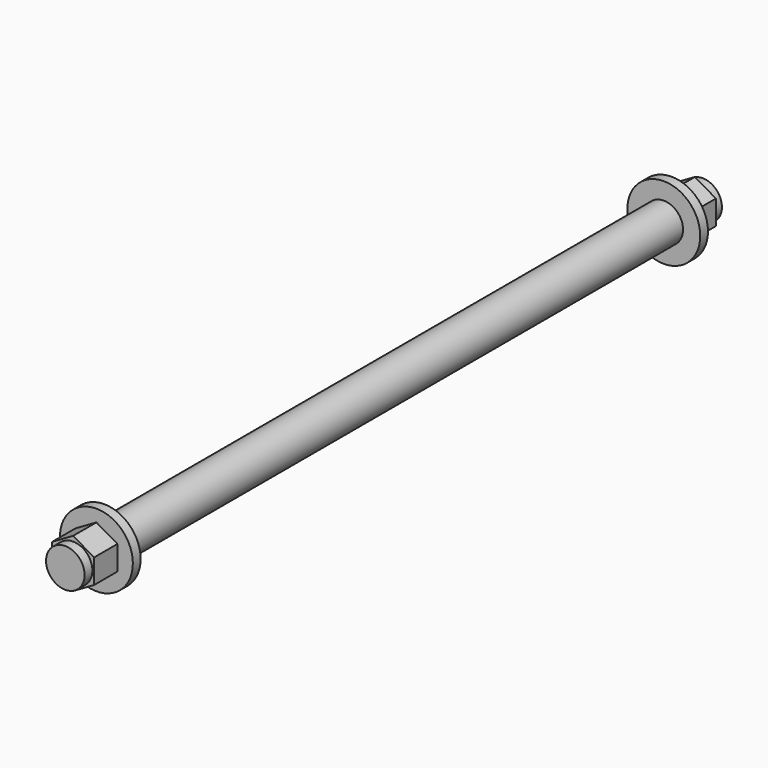
from build123d import *

# Parameters (mm, degrees)
SKETCH013_R     = 3.96875
PAD009_DEPTH    = 164
SKETCH014_R     = 7.5
PAD010_DEPTH    = 10
SKETCH015_R     = 7.5
POCKET003_DEPTH = 8
SKETCH016_R     = 7.5
SKETCH016_R_2   = 3.96875
POCKET004_DEPTH = 2
SKETCH017_R     = 7.5
PAD011_DEPTH    = 10
SKETCH018_R     = 7.5
POCKET005_DEPTH = 8
SKETCH019_R     = 7.5
SKETCH019_R_2   = 3.96875
POCKET006_DEPTH = 2


with BuildPart() as part:
    # Sketch013 → Pad009 (new body)
    with BuildSketch(Plane(origin=(500, 82, 56), x_dir=(1, 0, 0), z_dir=(0, -1, 0))):
        Circle(SKETCH013_R)
    extrude(amount=PAD009_DEPTH)

    # Sketch014 → Pad010 (new body)
    with BuildSketch(Plane(origin=(500, 82, 56), x_dir=(1, 0, 0), z_dir=(0, 1, 0))):
        Circle(SKETCH014_R)
    extrude(amount=-PAD010_DEPTH)

    # Sketch015 → Pocket003 (cut)
    with BuildSketch(Plane(origin=(500, 82, 56), x_dir=(1, 0, 0), z_dir=(0, 1, 0))):
        Circle(SKETCH015_R)
        Polygon((0, 5), (-4.330127, 2.5), (-4.330127, -2.5), (0, -5), (4.330127, -2.5), (4.330127, 2.5), align=None, mode=Mode.SUBTRACT)
    extrude(amount=-POCKET003_DEPTH, mode=Mode.SUBTRACT)

    # Sketch016 → Pocket004 (cut)
    with BuildSketch(Plane(origin=(500, 82, 56), x_dir=(1, 0, 0), z_dir=(0, 1, 0))):
        Circle(SKETCH016_R)
        Circle(SKETCH016_R_2, mode=Mode.SUBTRACT)
    extrude(amount=-POCKET004_DEPTH, mode=Mode.SUBTRACT)

    # Sketch017 → Pad011 (new body)
    with BuildSketch(Plane(origin=(500, -82, 56), x_dir=(1, 0, 0), z_dir=(0, -1, 0))):
        Circle(SKETCH017_R)
    extrude(amount=-PAD011_DEPTH)

    # Sketch018 → Pocket005 (cut)
    with BuildSketch(Plane(origin=(500, -82, 56), x_dir=(1, 0, 0), z_dir=(0, -1, 0))):
        Circle(SKETCH018_R)
        Polygon((0, 5), (-4.330127, 2.5), (-4.330127, -2.5), (0, -5), (4.330127, -2.5), (4.330127, 2.5), align=None, mode=Mode.SUBTRACT)
    extrude(amount=-POCKET005_DEPTH, mode=Mode.SUBTRACT)

    # Sketch019 → Pocket006 (cut)
    with BuildSketch(Plane(origin=(500, -82, 56), x_dir=(1, 0, 0), z_dir=(0, -1, 0))):
        Circle(SKETCH019_R)
        Circle(SKETCH019_R_2, mode=Mode.SUBTRACT)
    extrude(amount=-POCKET006_DEPTH, mode=Mode.SUBTRACT)


with BuildPart() as part_1:
    # Clone016 placement: moved
    add(part.part.moved(Location((-1000, 0, 0))))


solid = part_1.part
